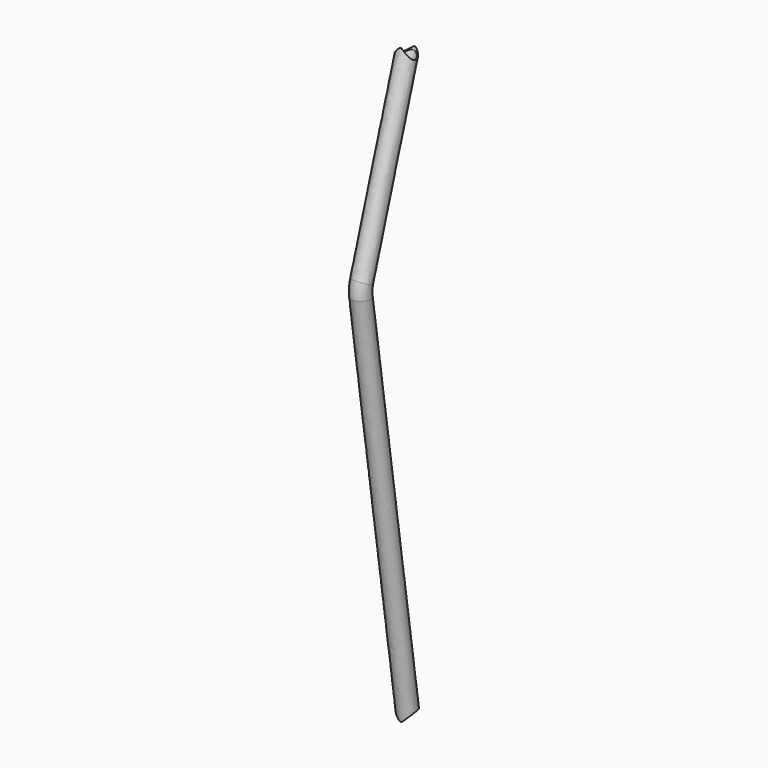
from build123d import *

# Parameters (mm, degrees)
F0_R          = 13.5
F0_R_2        = 12.25
F3_R          = 13.5
F4_DEPTH      = 25
F4_DEPTH_BACK = 25
F6_DEPTH      = 25
F6_DEPTH_BACK = 25


with BuildPart() as f2:
    # F2: sweep along a path in F1
    with BuildLine(Plane.YZ) as f2_path:
        Line((0, 0), (-86.042943, 574.332351))
        ThreePointArc((-86.042943, 574.332351), (-86.360468, 583.405192), (-84.623944, 592.315959))
        Line((-84.623944, 592.315959), (0, 860))
    # F0 (on Top) → F2 (sweep)
    with BuildSketch(Plane.XY):
        Circle(F0_R)
        Circle(F0_R_2, mode=Mode.SUBTRACT)
    sweep(path=f2_path.line)

    # F3 (on Right) → F4 (cut, two sides)
    with BuildSketch(Plane.YZ) as f4_sk:
        Circle(F3_R)
    extrude(amount=F4_DEPTH, mode=Mode.SUBTRACT)
    extrude(f4_sk.sketch, amount=-F4_DEPTH_BACK, mode=Mode.SUBTRACT)

    # F5 (on Right) → F6 (cut, two sides)
    with BuildSketch(Plane.YZ) as f6_sk:
        with BuildLine():
            ThreePointArc((0, 846.5), (9.545942, 850.454058), (13.5, 860))
            ThreePointArc((13.5, 860), (-9.545942, 869.545942), (0, 846.5))
        make_face()
    extrude(amount=F6_DEPTH, mode=Mode.SUBTRACT)
    extrude(f6_sk.sketch, amount=-F6_DEPTH_BACK, mode=Mode.SUBTRACT)


solid = f2.part
